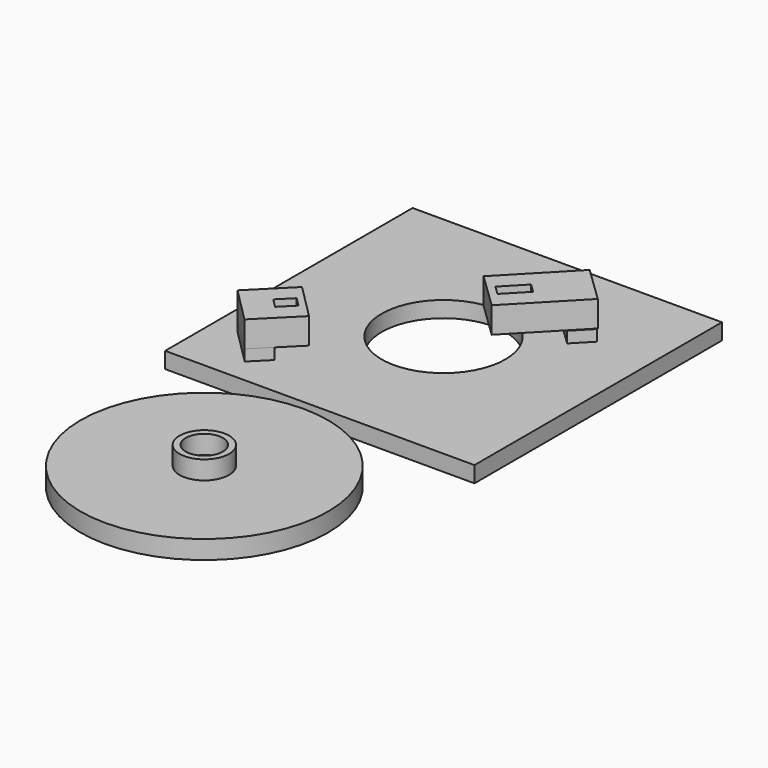
from build123d import *

# Parameters (mm, degrees)
SKETCH005_AS_DRAWN_W                      = 2.018315
SKETCH005_AS_DRAWN_H                      = 4.540272
EXTRUDE002_DEPTH                          = 4.5
EXTRUDE002_ONTO_SKETCH005_PLACEMENT_ANGLE = 136
BOX004_W                                  = 8
BOX004_H                                  = 13.5
BOX004_DEPTH                              = 4.2
BOX004_PLACEMENT_ANGLE                    = 136
BOX002_W                                  = 8
BOX002_H                                  = 3.8
BOX002_DEPTH                              = 1.8
BOX002_PLACEMENT_ANGLE                    = 136
SKETCH006_AS_DRAWN_W                      = 2.0548
SKETCH006_AS_DRAWN_H                      = 2.98173
EXTRUDE003_DEPTH                          = 4.5
EXTRUDE003_ONTO_SKETCH006_PLACEMENT_ANGLE = 135
BOX003_W                                  = 8
BOX003_H                                  = 8.2
BOX003_DEPTH                              = 4.2
BOX003_PLACEMENT_ANGLE                    = 135
BOX001_W                                  = 8
BOX001_H                                  = 3.8
BOX001_DEPTH                              = 1.8
BOX001_PLACEMENT_ANGLE                    = 135
CYLINDER_R                                = 10
CYLINDER_DEPTH                            = 2.6
BOX_W                                     = 50
BOX_H                                     = 50
BOX_DEPTH                                 = 2.6
CYLINDER001_R                             = 20
CYLINDER001_DEPTH                         = 3
SKETCH002_R                               = 4
SKETCH002_R_2                             = 3
EXTRUDE001_DEPTH                          = 6


with BuildPart() as extrude002:
    # Sketch005 as drawn → Extrude002 (new)
    with BuildSketch(Plane.XY):
        with Locations((3.98714, 10.110961)):
            Rectangle(SKETCH005_AS_DRAWN_W, SKETCH005_AS_DRAWN_H)
    extrude(amount=EXTRUDE002_DEPTH)


with BuildPart() as extrude002_1:
    # Extrude002 onto Sketch005 placement: moved
    add(extrude002.part.moved(Location((47.02, 42.01, 12.52))).rotate(Axis((47.02, 42.01, 12.52), (0, 0, 1)), EXTRUDE002_ONTO_SKETCH005_PLACEMENT_ANGLE))


with BuildPart() as extrude002_2:
    # Extrude002 placement: moved
    add(extrude002_1.part.moved(Location((0, 0, -4.5))))


with BuildPart() as cut003:
    # Box004 → Box004 (new body)
    with BuildSketch(Plane.XY):
        with Locations((4, 6.75)):
            Rectangle(BOX004_W, BOX004_H)
    extrude(amount=BOX004_DEPTH)


with BuildPart() as cut003_1:
    # Box004 placement: moved
    add(cut003.part.moved(Location((47.02, 42.01, 8.32))).rotate(Axis((47.02, 42.01, 8.32), (0, 0, 1)), BOX004_PLACEMENT_ANGLE))

    # Cut003: cut Extrude002
    add(extrude002_2.part, mode=Mode.SUBTRACT)


with BuildPart() as cut003_2:
    # Cut003 placement: moved
    add(cut003_1.part.moved(Location((-5.975619, -5.901068, -3.867182))))


with BuildPart() as fusion:
    # Box002 → Box002 (new body)
    with BuildSketch(Plane.XY):
        with Locations((4, 1.9)):
            Rectangle(BOX002_W, BOX002_H)
    extrude(amount=BOX002_DEPTH)


with BuildPart() as fusion_1:
    # Box002 placement: moved
    add(fusion.part.moved(Location((41, 36, 2.6))).rotate(Axis((41, 36, 2.6), (0, 0, 1)), BOX002_PLACEMENT_ANGLE))

    # Fusion: union Cut003
    add(cut003_2.part)


with BuildPart() as extrude003:
    # Sketch006 as drawn → Extrude003 (new)
    with BuildSketch(Plane.XY):
        with Locations((4.015499, 2.494238)):
            Rectangle(SKETCH006_AS_DRAWN_W, SKETCH006_AS_DRAWN_H)
    extrude(amount=EXTRUDE003_DEPTH)


with BuildPart() as extrude003_1:
    # Extrude003 onto Sketch006 placement: moved
    add(extrude003.part.moved(Location((15.55, 9.66, 12.99))).rotate(Axis((15.55, 9.66, 12.99), (0, 0, 1)), EXTRUDE003_ONTO_SKETCH006_PLACEMENT_ANGLE))


with BuildPart() as extrude003_2:
    # Extrude003 placement: moved
    add(extrude003_1.part.moved(Location((0, 0, -4.5))))


with BuildPart() as cut004:
    # Box003 → Box003 (new body)
    with BuildSketch(Plane.XY):
        with Locations((4, 4.1)):
            Rectangle(BOX003_W, BOX003_H)
    extrude(amount=BOX003_DEPTH)


with BuildPart() as cut004_1:
    # Box003 placement: moved
    add(cut004.part.moved(Location((15.55, 9.66, 8.79))).rotate(Axis((15.55, 9.66, 8.79), (0, 0, 1)), BOX003_PLACEMENT_ANGLE))

    # Cut004: cut Extrude003
    add(extrude003_2.part, mode=Mode.SUBTRACT)


with BuildPart() as cut004_2:
    # Cut004 placement: moved
    add(cut004_1.part.moved(Location((-0.080851, 0.078243, -4.376037))))


with BuildPart() as fusion001:
    # Box001 → Box001 (new body)
    with BuildSketch(Plane.XY):
        with Locations((4, 1.9)):
            Rectangle(BOX001_W, BOX001_H)
    extrude(amount=BOX001_DEPTH)


with BuildPart() as fusion001_1:
    # Box001 placement: moved
    add(fusion001.part.moved(Location((12.36, 6.67, 2.6))).rotate(Axis((12.36, 6.67, 2.6), (0, 0, 1)), BOX001_PLACEMENT_ANGLE))

    # Fusion001: union Cut004
    add(cut004_2.part)


with BuildPart() as cylinder:
    # Cylinder → Cylinder (new body)
    with BuildSketch(Plane(origin=(25, 25, 0), x_dir=(1, 0, 0), z_dir=(0, 0, 1))):
        Circle(CYLINDER_R)
    extrude(amount=CYLINDER_DEPTH)


with BuildPart() as fusion002:
    # Box → Box (new body)
    with BuildSketch(Plane.XY):
        with Locations((25, 25)):
            Rectangle(BOX_W, BOX_H)
    extrude(amount=BOX_DEPTH)

    # Cut: cut Cylinder
    add(cylinder.part, mode=Mode.SUBTRACT)

    # Fusion002: union Fusion, Fusion001
    add(fusion_1.part)
    add(fusion001_1.part)


with BuildPart() as cylinder001:
    # Cylinder001 → Cylinder001 (new body)
    with BuildSketch(Plane(origin=(25.88, -24.43, 1.58), x_dir=(1, 0, 0), z_dir=(0, 0, 1))):
        Circle(CYLINDER001_R)
    extrude(amount=CYLINDER001_DEPTH)


with BuildPart() as extrude001:
    # Sketch002 → Extrude001 (new body)
    with BuildSketch(Plane.XY):
        with Locations((25.84182, 74.524612)):
            Circle(SKETCH002_R)
        with Locations((25.84182, 74.524612)):
            Circle(SKETCH002_R_2, mode=Mode.SUBTRACT)
    extrude(amount=EXTRUDE001_DEPTH)


with BuildPart() as extrude001_1:
    # Extrude001 placement: moved
    add(extrude001.part.moved(Location((0.03818, -98.954612, 1.58))))


with BuildPart() as fusion003:
    # Fusion003 base: copy of Extrude001
    add(extrude001_1.part)

    # Fusion003: union Cylinder001
    add(cylinder001.part)


with BuildPart() as fusion004:
    # Fusion004 base: copy of Cylinder001
    add(cylinder001.part)

    # Fusion004: union Extrude001
    add(extrude001_1.part)


solid = Compound([fusion002.part, fusion003.part, fusion004.part])
